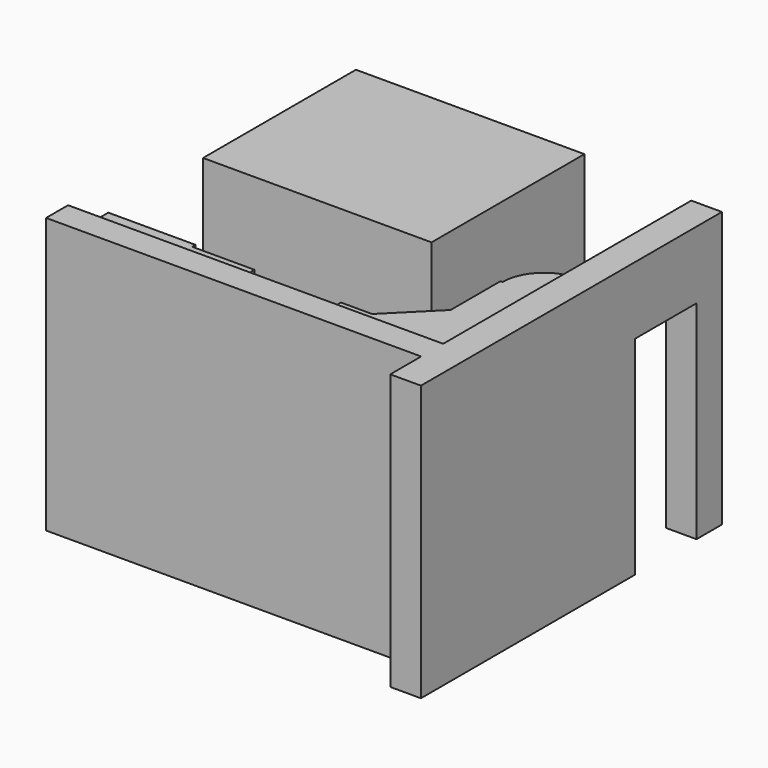
from build123d import *

# Parameters (mm, degrees)
F1_DEPTH = 2400
F0_W     = 2200
F0_H     = 1840
F3_DEPTH = 2650
F4_W     = 295.2346801758
F4_H     = 740
F5_DEPTH = 2000


with BuildPart() as f1:
    # F0 (on Top) → F1 (new body)
    with BuildSketch(Plane.XY):
        Polygon((1950, 3920), (1950, 3450), (2790, 3450), (2790, 3880), (2790, 3920), align=None)
        Polygon((2790, 3880), (2790, 3450), (3350, 3450), (3390, 3450), (3390, 3880), align=None)
    extrude(amount=F1_DEPTH)


with BuildPart() as f1b:
    # F0 (on Top) → F1, piece 2 (new body)
    with BuildSketch(Plane.XY):
        Polygon((4250, 3450), (4530, 3450), (4530, 3870), (4230, 3870), (4230, 3450), align=None)
        Polygon((4530, 3450), (5550, 3450), (5550, 4290), (4950, 4290), (4530, 3870), align=None)
        Polygon((4950, 4290), (5550, 4290), (5550, 4890), (4970, 4890), (4950, 4890), align=None)
        with BuildLine():
            Line((4970, 4890), (5550, 4890))
            Line((5550, 4890), (5550, 5290))
            Line((5550, 5290), (5370, 5290))
            ThreePointArc((5370, 5290), (5087.1572875254, 5172.8427124746), (4970, 4890))
        make_face()
    extrude(amount=F1_DEPTH)


with BuildPart() as f1c:
    # F0 (on Top) → F1, piece 3 (new body)
    with BuildSketch(Plane.XY):
        with Locations((3050, 5980)):
            Rectangle(F0_W, F0_H)
    extrude(amount=F1_DEPTH)


with BuildPart() as f3:
    # F2 (on face) → F3 (new body)
    with BuildSketch(Plane(origin=(0, 0, 0), x_dir=(1, 0, 0), z_dir=(0, 0, -1))):
        Polygon((5550, -3185.5191707611), (5550, -3450), (5550, -5290), (5550, -6435.9726905823), (5845.2346801758, -6435.9726905823), (5845.2346801758, -2813.1976127625), (5550, -2813.1976127625), align=None)
        Polygon((1938.3109807968, -3185.5191707611), (1938.3109807968, -3450), (4230, -3450), (5550, -3450), (5550, -3185.5191707611), align=None)
    extrude(amount=-F3_DEPTH)

    # F4 (on face) → F5 (cut)
    with BuildSketch(Plane(origin=(0, 0, 0), x_dir=(1, 0, 0), z_dir=(0, 0, -1))):
        with Locations((5697.6173400879, -5760)):
            Rectangle(F4_W, F4_H)
    extrude(amount=-F5_DEPTH, mode=Mode.SUBTRACT)


solid = Compound([f1.part, f1b.part, f1c.part, f3.part])
